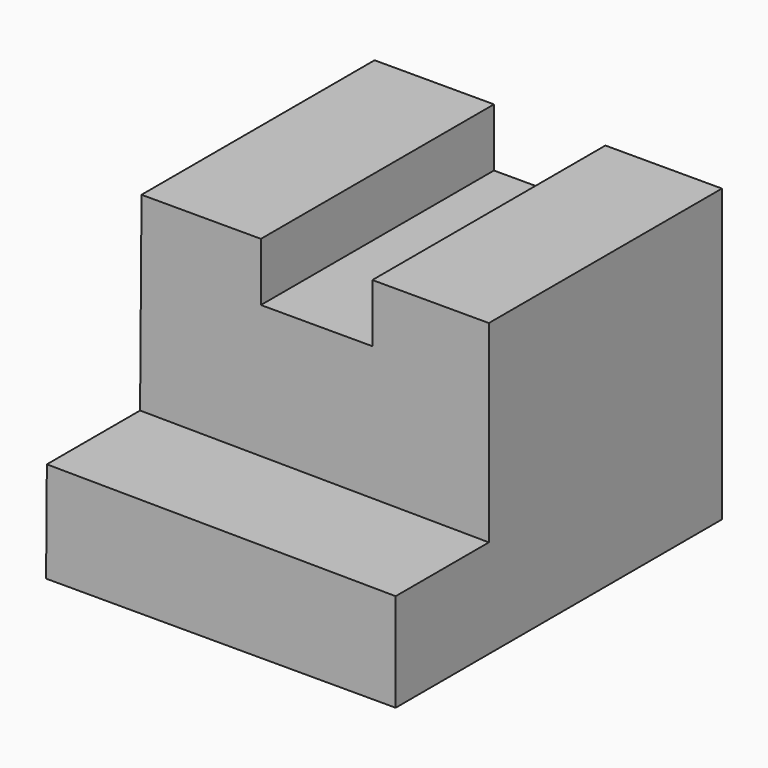
from build123d import *

# Parameters (mm, degrees)
F1_DEPTH = 19.05
F2_DEPTH = 25.4
F3_DEPTH = 25.4
F5_DEPTH = 12.7


with BuildPart() as f1:
    # F0 (on Front) → F1 (new body)
    with BuildSketch(Plane.XZ):
        Polygon((2.828845887, 3.5896749168), (2.8014711667, 0), (40.9014711667, 0), (40.9014711667, 3.2993345685), align=None)
        Polygon((2.9930308781, 25.1194198566), (2.828845887, 3.5896749168), (40.9014711667, 3.2993345685), (40.9014711667, 25.3031502977), (28.2014711667, 25.4), (16.0545626627, 25.4), align=None)
        Polygon((3.0435954224, 31.75), (2.9930308781, 25.1194198566), (16.0545626627, 25.4), (16.0545626627, 31.75), align=None)
        Polygon((28.2014711667, 25.4), (40.9014711667, 25.3031502977), (40.9014711667, 31.75), (28.2014711667, 31.75), align=None)
    extrude(amount=F1_DEPTH)

    # F0 (on Front) → F2 (cut)
    with BuildSketch(Plane.XZ):
        Polygon((2.828845887, 3.5896749168), (2.8014711667, 0), (40.9014711667, 0), (40.9014711667, 3.2993345685), align=None)
        Polygon((2.9930308781, 25.1194198566), (2.828845887, 3.5896749168), (40.9014711667, 3.2993345685), (40.9014711667, 25.3031502977), (28.2014711667, 25.4), (16.0545626627, 25.4), align=None)
        Polygon((3.0435954224, 31.75), (2.9930308781, 25.1194198566), (16.0545626627, 25.4), (16.0545626627, 31.75), align=None)
        Polygon((28.2014711667, 25.4), (40.9014711667, 25.3031502977), (40.9014711667, 31.75), (28.2014711667, 31.75), align=None)
    extrude(amount=-F2_DEPTH, mode=Mode.SUBTRACT)

    # F3 (add): a face of the model
    f3_faces = [f1.faces().sort_by_distance(p)[0] for p in [
        (21.8971715309, -19.05, 14.989088292),
    ]]
    extrude(f3_faces, amount=F3_DEPTH)

    # F4 (on face) → F5 (cut)
    with BuildSketch(Plane.XZ.offset(44.45)):
        Polygon((3.0435954224, 31.75), (2.8853301618, 10.9965153512), (40.9014711667, 10.7066057497), (40.9014711667, 31.75), (28.2014711667, 31.75), (28.2014711667, 25.4), (16.0545626627, 25.4), (16.0545626627, 31.75), align=None)
    extrude(amount=-F5_DEPTH, mode=Mode.SUBTRACT)


solid = f1.part
